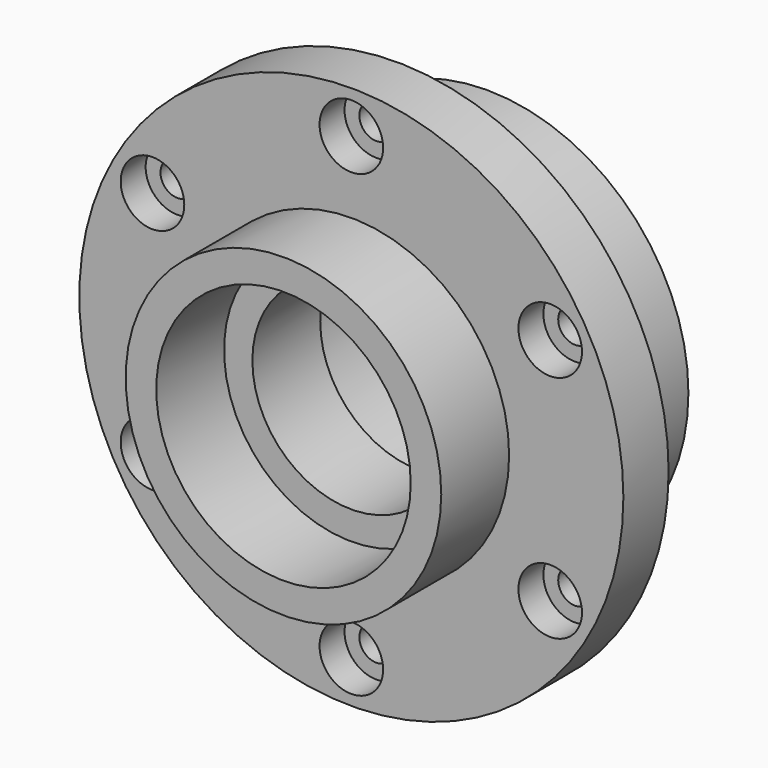
from build123d import *

# Parameters (mm, degrees)
F0_R            = 30.5435
F1_DEPTH        = 6.35
F2_R            = 17.7165
F2_R_2          = 14.2875
F3_DEPTH        = 9.525
F4_R            = 22.606
F5_DEPTH        = 12.7
F6_R            = 14.2875
F7_DEPTH        = 9.525
F8_R            = 11.1125
F9_DEPTH        = 19.05
F11_D           = 3.81
F11_CBORE_D     = 7.1374
F11_CBORE_DEPTH = 3.5052


with BuildPart() as f1:
    # F0 (on Front) → F1 (new body)
    with BuildSketch(Plane.XZ):
        Circle(F0_R)
    extrude(amount=F1_DEPTH)

    # F2 (on face) → F3 (join)
    with BuildSketch(Plane.XZ.offset(6.35)):
        Circle(F2_R)
        Circle(F2_R_2, mode=Mode.SUBTRACT)
    extrude(amount=F3_DEPTH)

    # F4 (on face) → F5 (join)
    with BuildSketch(Plane(origin=(0, 0, 0), x_dir=(-1, 0, 0), z_dir=(0, 1, 0))):
        Circle(F4_R)
    extrude(amount=F5_DEPTH)

    # F6 (on face) → F7 (cut)
    with BuildSketch(Plane(origin=(0, 12.7, 0), x_dir=(-1, 0, 0), z_dir=(0, 1, 0))):
        Circle(F6_R)
    extrude(amount=-F7_DEPTH, mode=Mode.SUBTRACT)

    # F8 (on face) → F9 (cut, symmetric)
    with BuildSketch(Plane(origin=(0, 3.175, 0), x_dir=(-1, 0, 0), z_dir=(0, 1, 0))):
        Circle(F8_R)
    extrude(amount=F9_DEPTH, both=True, mode=Mode.SUBTRACT)

    # F11 (through all)
    with Locations(Plane.XZ.offset(6.35)):
        with Locations((0, 25.781), (-22.327000935, 12.8905), (-22.327000935, -12.8905), (0, -25.781), (22.327000935, -12.8905), (22.327000935, 12.8905)):
            CounterBoreHole(F11_D / 2, F11_CBORE_D / 2, F11_CBORE_DEPTH)


solid = f1.part
